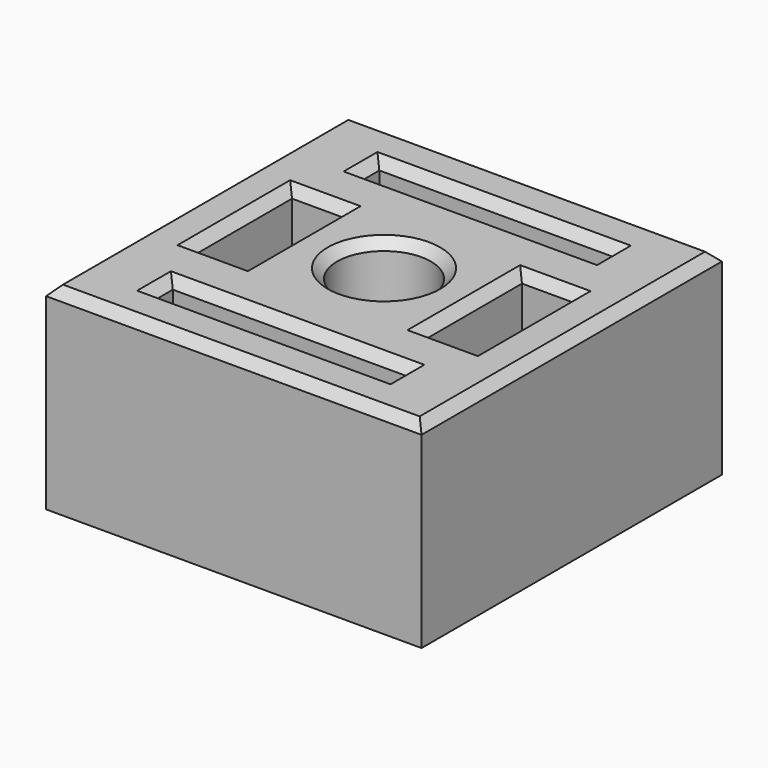
from build123d import *

# Parameters (mm, degrees)
F0_W     = 40
F0_H     = 40
F1_DEPTH = 10
F2_W     = 40
F2_H     = 40
F2_W_2   = 25
F2_H_2   = 2.5
F2_W_3   = 5.5
F2_H_3   = 13
F2_R     = 5
F3_DEPTH = 11
F4_DEPTH = 5
F5_SIZE  = 1


with BuildPart() as f1:
    # F0 (on Top) → F1 (new body)
    with BuildSketch(Plane.XY):
        Rectangle(F0_W, F0_H)
    extrude(amount=F1_DEPTH)

    # F2 (on face) → F3 (join)
    with BuildSketch(Plane.XY.offset(10)):
        Rectangle(F2_W, F2_H)
        with Locations((0, -13.75)):
            Rectangle(F2_W_2, F2_H_2, mode=Mode.SUBTRACT)
        with Locations((-12.25, 0)):
            Rectangle(F2_W_3, F2_H_3, mode=Mode.SUBTRACT)
        Circle(F2_R, mode=Mode.SUBTRACT)
        with Locations((12.25, 0)):
            Rectangle(F2_W_3, F2_H_3, mode=Mode.SUBTRACT)
        with Locations((0, 13.75)):
            Rectangle(F2_W_2, F2_H_2, mode=Mode.SUBTRACT)
    extrude(amount=F3_DEPTH)

    # F4 (cut): a face of the model
    f4_faces = [f1.faces().sort_by_distance(p)[0] for p in [
        (0, 0, 10),
    ]]
    extrude(f4_faces, amount=-F4_DEPTH, mode=Mode.SUBTRACT)

    # F5
    f5_edges = [f1.edges().sort_by_distance(p)[0] for p in [
        (0, -20, 21),
        (20, 0, 21),
        (0, 20, 21),
        (-20, 0, 21),
        (0, -12.5, 21),
        (12.5, -13.75, 21),
        (0, -15, 21),
        (-12.5, -13.75, 21),
        (-12.25, 6.5, 21),
        (-9.5, 0, 21),
        (-12.25, -6.5, 21),
        (-15, 0, 21),
        (-5, 0, 21),
        (12.25, 6.5, 21),
        (15, 0, 21),
        (12.25, -6.5, 21),
        (9.5, 0, 21),
        (0, 15, 21),
        (12.5, 13.75, 21),
        (0, 12.5, 21),
        (-12.5, 13.75, 21),
    ]]
    chamfer(f5_edges, length=F5_SIZE)


solid = f1.part
